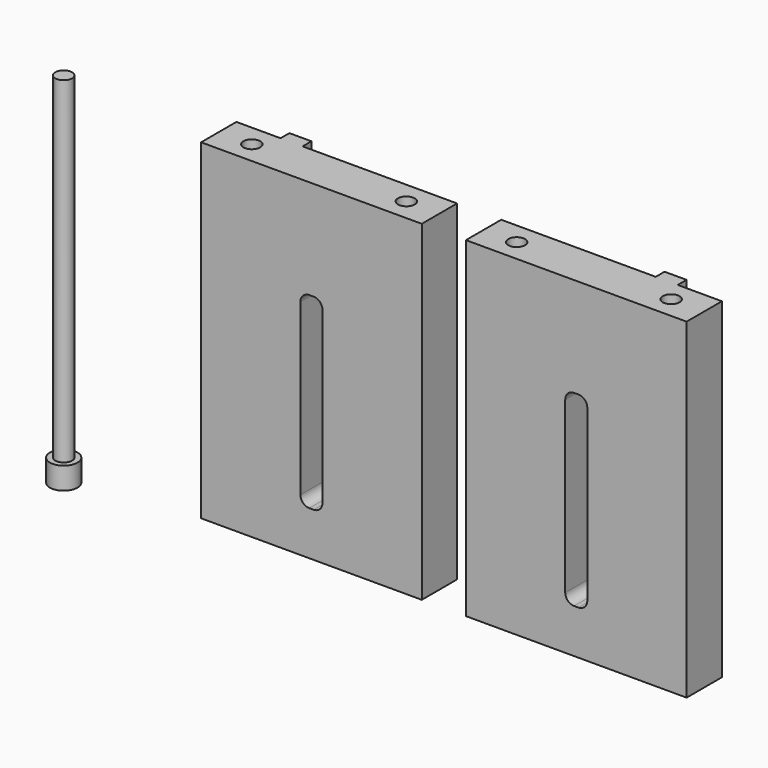
from build123d import *

# Parameters (mm, degrees)
F0_W      = 63.5
F0_H      = 95.25
F0_W_2    = 6.35
F0_H_2    = 53.975
F1_DEPTH  = 12.7
F2_R      = 2.54
F3_R      = 2.413
F4_DEPTH  = 95.251
F5_R      = 3.9624
F6_DEPTH  = 6.35
F8_W      = 6.35
F8_H      = 95.25
F9_DEPTH  = 3.175
F10_R     = 3.9624
F11_DEPTH = 6.35
F13_DEPTH = 3.175
F14_R     = 2.413
F15_DEPTH = 96.8248


with BuildPart() as f1:
    # F0 (on Front) → F1 (new body)
    with BuildSketch(Plane.XZ):
        Rectangle(F0_W, F0_H)
        with Locations((0, -7.9375)):
            Rectangle(F0_W_2, F0_H_2, mode=Mode.SUBTRACT)
    extrude(amount=F1_DEPTH)

    # F2
    f2_edges = [f1.edges().sort_by_distance(p)[0] for p in [
        (-3.175, -6.35, 19.05),
        (3.175, -6.35, 19.05),
        (3.175, -6.35, -34.925),
        (-3.175, -6.35, -34.925),
    ]]
    fillet(f2_edges, radius=F2_R)

    # F3 (on face) → F4 (cut, through all)
    with BuildSketch(Plane.XY.offset(47.625)):
        with Locations((-22.225, -6.35)):
            Circle(F3_R)
        with Locations((22.225, -6.35)):
            Circle(F3_R)
    extrude(amount=-F4_DEPTH, mode=Mode.SUBTRACT)

    # F5 (on face) → F6 (cut)
    with BuildSketch(Plane(origin=(0, 0, -47.625), x_dir=(1, 0, 0), z_dir=(0, 0, -1))):
        with Locations((-22.225, 6.35)):
            Circle(F5_R)
        with Locations((22.225, 6.35)):
            Circle(F5_R)
    extrude(amount=-F6_DEPTH, mode=Mode.SUBTRACT)


with BuildPart() as f7_1:
    # F7: copy of F1
    add(f1.part.moved(Location((76.2, 0, 0))))

    # F8 (on face) → F9, piece 2 (join)
    with BuildSketch(Plane(origin=(0, 0, 0), x_dir=(-1, 0, 0), z_dir=(0, 1, 0))):
        with Locations((-92.075, 0)):
            Rectangle(F8_W, F8_H)
    extrude(amount=F9_DEPTH)


with BuildPart() as f1_1:
    add(f1.part)

    # F8 (on face) → F9 (join)
    with BuildSketch(Plane(origin=(0, 0, 0), x_dir=(-1, 0, 0), z_dir=(0, 1, 0))):
        with Locations((15.875, 0)):
            Rectangle(F8_W, F8_H)
    extrude(amount=F9_DEPTH)


with BuildPart() as f11:
    # F10 (on face) → F11 (new body)
    with BuildSketch(Plane(origin=(0, 0, -47.625), x_dir=(1, 0, 0), z_dir=(0, 0, -1))):
        with Locations((-74.3262991309, 8.8916094974)):
            Circle(F10_R)
    extrude(amount=F11_DEPTH)

    # F12 (on face) → F13 (cut)
    with BuildSketch(Plane(origin=(0, 0, -53.975), x_dir=(1, 0, 0), z_dir=(0, 0, -1))):
        Polygon((-74.3262991309, 6.1493111888), (-71.9513991309, 7.5204603431), (-71.9513991309, 10.2627586517), (-74.3262991309, 11.633907806), (-76.7011991309, 10.2627586517), (-76.7011991309, 7.5204603431), align=None)
    extrude(amount=-F13_DEPTH, mode=Mode.SUBTRACT)

    # F14 (on face) → F15 (join)
    with BuildSketch(Plane.XY.offset(-47.625)):
        with Locations((-74.3262991309, -8.8916094974)):
            Circle(F14_R)
    extrude(amount=F15_DEPTH)


solid = Compound([f7_1.part, f1_1.part, f11.part])
